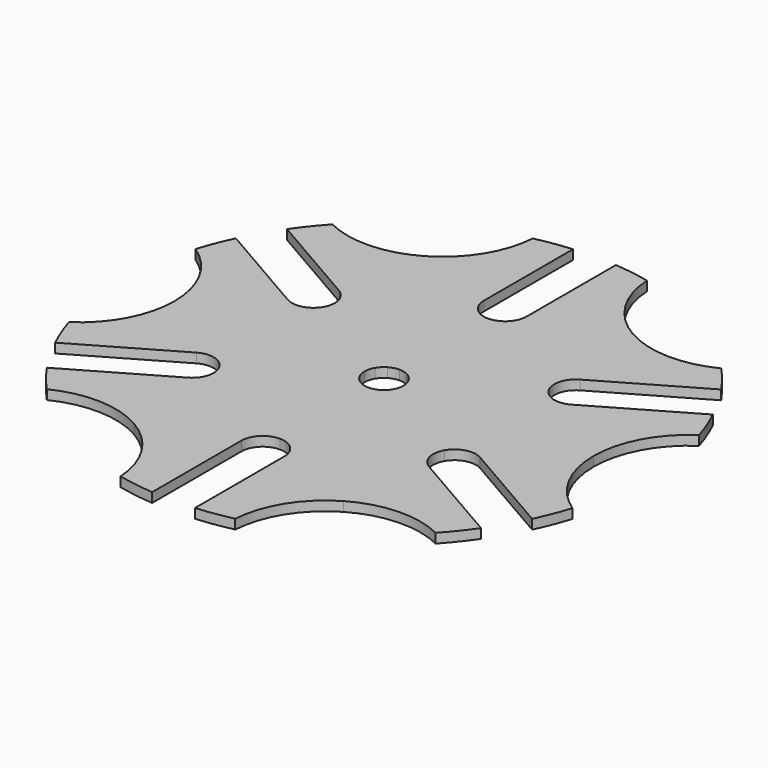
from build123d import *

# Parameters (mm, degrees)
F1_DEPTH = 3.175


with BuildPart() as f1:
    # F0 (on Top) → F1 (new body)
    with BuildSketch(Plane.XY):
        with BuildLine():
            Line((0, 6.477), (0, 43.36577))
            ThreePointArc((0, 43.36577), (-5.051394, 45.458126), (-7.14375, 50.50952))
            Line((-7.14375, 50.50952), (-7.14375, 87.69766))
            ThreePointArc((-7.14375, 87.69766), (-13.162923, 86.99799), (-19.119664, 85.885687))
            ThreePointArc((-19.119664, 85.885687), (-23.844664, 71.210965), (-34.924976, 60.491833))
            Line((-34.924976, 60.491833), (-3.2385, 5.609247))
            ThreePointArc((-3.2385, 5.609247), (-1.676371, 6.256302), (0, 6.477))
        make_face()
        with BuildLine():
            ThreePointArc((-5.609247, 3.2385), (-4.579931, 4.579931), (-3.2385, 5.609247))
            Line((-3.2385, 5.609247), (-34.924976, 60.491833))
            ThreePointArc((-34.924976, 60.491833), (-49.748173, 56.255567), (-64.819355, 59.500958))
            ThreePointArc((-64.819355, 59.500958), (-68.761008, 54.898421), (-72.376527, 50.035499))
            Line((-72.376527, 50.035499), (-40.170653, 31.441429))
            ThreePointArc((-40.170653, 31.441429), (-36.842195, 27.103699), (-37.555859, 21.682885))
            Line((-37.555859, 21.682885), (-5.609247, 3.2385))
        make_face()
        with BuildLine():
            ThreePointArc((-6.477, 0), (-6.256302, 1.676371), (-5.609247, 3.2385))
            Line((-5.609247, 3.2385), (-37.555859, 21.682885))
            ThreePointArc((-37.555859, 21.682885), (-41.893589, 18.354428), (-47.314403, 19.068091))
            Line((-47.314403, 19.068091), (-79.520277, 37.662161))
            ThreePointArc((-79.520277, 37.662161), (-81.923931, 32.099569), (-83.939019, 26.384729))
            ThreePointArc((-83.939019, 26.384729), (-73.592836, 14.955398), (-69.849953, 0))
            Line((-69.849953, 0), (-6.477, 0))
        make_face()
        with BuildLine():
            ThreePointArc((-5.609247, -3.2385), (-6.256302, -1.676371), (-6.477, 0))
            Line((-6.477, 0), (-69.849953, 0))
            ThreePointArc((-69.849953, 0), (-73.592836, -14.955398), (-83.939019, -26.384729))
            ThreePointArc((-83.939019, -26.384729), (-81.923931, -32.099569), (-79.520277, -37.662161))
            Line((-79.520277, -37.662161), (-47.314403, -19.068091))
            ThreePointArc((-47.314403, -19.068091), (-41.893589, -18.354428), (-37.555859, -21.682885))
            Line((-37.555859, -21.682885), (-5.609247, -3.2385))
        make_face()
        with BuildLine():
            ThreePointArc((-3.2385, -5.609247), (-4.579931, -4.579931), (-5.609247, -3.2385))
            Line((-5.609247, -3.2385), (-37.555859, -21.682885))
            ThreePointArc((-37.555859, -21.682885), (-36.842195, -27.103699), (-40.170653, -31.441429))
            Line((-40.170653, -31.441429), (-72.376527, -50.035499))
            ThreePointArc((-72.376527, -50.035499), (-68.761008, -54.898421), (-64.819355, -59.500958))
            ThreePointArc((-64.819355, -59.500958), (-49.748173, -56.255567), (-34.924976, -60.491833))
            Line((-34.924976, -60.491833), (-3.2385, -5.609247))
        make_face()
        with BuildLine():
            Line((0, -43.36577), (0, -6.477))
            ThreePointArc((0, -6.477), (-1.676371, -6.256302), (-3.2385, -5.609247))
            Line((-3.2385, -5.609247), (-34.924976, -60.491833))
            ThreePointArc((-34.924976, -60.491833), (-23.844664, -71.210965), (-19.119664, -85.885687))
            ThreePointArc((-19.119664, -85.885687), (-13.162923, -86.99799), (-7.14375, -87.69766))
            Line((-7.14375, -87.69766), (-7.14375, -50.50952))
            ThreePointArc((-7.14375, -50.50952), (-5.051394, -45.458126), (0, -43.36577))
        make_face()
        with BuildLine():
            Line((34.924976, -60.491833), (3.2385, -5.609247))
            ThreePointArc((3.2385, -5.609247), (1.676371, -6.256302), (0, -6.477))
            Line((0, -6.477), (0, -43.36577))
            ThreePointArc((0, -43.36577), (5.051394, -45.458126), (7.14375, -50.50952))
            Line((7.14375, -50.50952), (7.14375, -87.69766))
            ThreePointArc((7.14375, -87.69766), (13.162923, -86.99799), (19.119664, -85.885687))
            ThreePointArc((19.119664, -85.885687), (23.844664, -71.210965), (34.924976, -60.491833))
        make_face()
        with BuildLine():
            Line((37.555859, -21.682885), (5.609247, -3.2385))
            ThreePointArc((5.609247, -3.2385), (4.579931, -4.579931), (3.2385, -5.609247))
            Line((3.2385, -5.609247), (34.924976, -60.491833))
            ThreePointArc((34.924976, -60.491833), (49.748173, -56.255567), (64.819355, -59.500958))
            ThreePointArc((64.819355, -59.500958), (68.761008, -54.898421), (72.376527, -50.035499))
            Line((72.376527, -50.035499), (40.170653, -31.441429))
            ThreePointArc((40.170653, -31.441429), (36.842195, -27.103699), (37.555859, -21.682885))
        make_face()
        with BuildLine():
            Line((69.849953, 0), (6.477, 0))
            ThreePointArc((6.477, 0), (6.256302, -1.676371), (5.609247, -3.2385))
            Line((5.609247, -3.2385), (37.555859, -21.682885))
            ThreePointArc((37.555859, -21.682885), (41.893589, -18.354428), (47.314403, -19.068091))
            Line((47.314403, -19.068091), (79.520277, -37.662161))
            ThreePointArc((79.520277, -37.662161), (81.923931, -32.099569), (83.939019, -26.384729))
            ThreePointArc((83.939019, -26.384729), (73.592836, -14.955398), (69.849953, 0))
        make_face()
        with BuildLine():
            Line((37.555859, 21.682885), (5.609247, 3.2385))
            ThreePointArc((5.609247, 3.2385), (6.256302, 1.676371), (6.477, 0))
            Line((6.477, 0), (69.849953, 0))
            ThreePointArc((69.849953, 0), (73.592836, 14.955398), (83.939019, 26.384729))
            ThreePointArc((83.939019, 26.384729), (81.923931, 32.099569), (79.520277, 37.662161))
            Line((79.520277, 37.662161), (47.314403, 19.068091))
            ThreePointArc((47.314403, 19.068091), (41.893589, 18.354428), (37.555859, 21.682885))
        make_face()
        with BuildLine():
            ThreePointArc((64.949414, 59.358962), (49.746755, 55.960011), (34.757268, 60.201354))
            Line((34.757268, 60.201354), (3.2385, 5.609247))
            ThreePointArc((3.2385, 5.609247), (4.579931, 4.579931), (5.609247, 3.2385))
            Line((5.609247, 3.2385), (37.555859, 21.682885))
            ThreePointArc((37.555859, 21.682885), (36.842195, 27.103699), (40.170653, 31.441429))
            Line((40.170653, 31.441429), (72.376527, 50.035499))
            ThreePointArc((72.376527, 50.035499), (68.821038, 54.823148), (64.949414, 59.358962))
        make_face()
        with BuildLine():
            ThreePointArc((34.757268, 60.201354), (23.589414, 71.061959), (18.931662, 85.927324))
            ThreePointArc((18.931662, 85.927324), (13.06772, 87.012341), (7.14375, 87.69766))
            Line((7.14375, 87.69766), (7.14375, 50.50952))
            ThreePointArc((7.14375, 50.50952), (5.051394, 45.458126), (0, 43.36577))
            Line((0, 43.36577), (0, 6.477))
            ThreePointArc((0, 6.477), (1.676371, 6.256302), (3.2385, 5.609247))
            Line((3.2385, 5.609247), (34.757268, 60.201354))
        make_face()
        with BuildLine():
            ThreePointArc((34.757268, 60.201354), (23.589414, 71.061959), (18.931662, 85.927324))
            ThreePointArc((18.931662, 85.927324), (13.06772, 87.012341), (7.14375, 87.69766))
            Line((7.14375, 87.69766), (7.14375, 50.50952))
            ThreePointArc((7.14375, 50.50952), (5.051394, 45.458126), (0, 43.36577))
            Line((0, 43.36577), (0, 6.477))
            ThreePointArc((0, 6.477), (1.676371, 6.256302), (3.2385, 5.609247))
            Line((3.2385, 5.609247), (34.757268, 60.201354))
        make_face()
        with BuildLine():
            ThreePointArc((-5.609247, 3.2385), (-4.579931, 4.579931), (-3.2385, 5.609247))
            Line((-3.2385, 5.609247), (-34.924976, 60.491833))
            ThreePointArc((-34.924976, 60.491833), (-49.748173, 56.255567), (-64.819355, 59.500958))
            ThreePointArc((-64.819355, 59.500958), (-68.761008, 54.898421), (-72.376527, 50.035499))
            Line((-72.376527, 50.035499), (-40.170653, 31.441429))
            ThreePointArc((-40.170653, 31.441429), (-36.842195, 27.103699), (-37.555859, 21.682885))
            Line((-37.555859, 21.682885), (-5.609247, 3.2385))
        make_face()
        with BuildLine():
            ThreePointArc((-6.477, 0), (-6.256302, 1.676371), (-5.609247, 3.2385))
            Line((-5.609247, 3.2385), (-37.555859, 21.682885))
            ThreePointArc((-37.555859, 21.682885), (-41.893589, 18.354428), (-47.314403, 19.068091))
            Line((-47.314403, 19.068091), (-79.520277, 37.662161))
            ThreePointArc((-79.520277, 37.662161), (-81.923931, 32.099569), (-83.939019, 26.384729))
            ThreePointArc((-83.939019, 26.384729), (-73.592836, 14.955398), (-69.849953, 0))
            Line((-69.849953, 0), (-6.477, 0))
        make_face()
    extrude(amount=F1_DEPTH)


solid = f1.part
